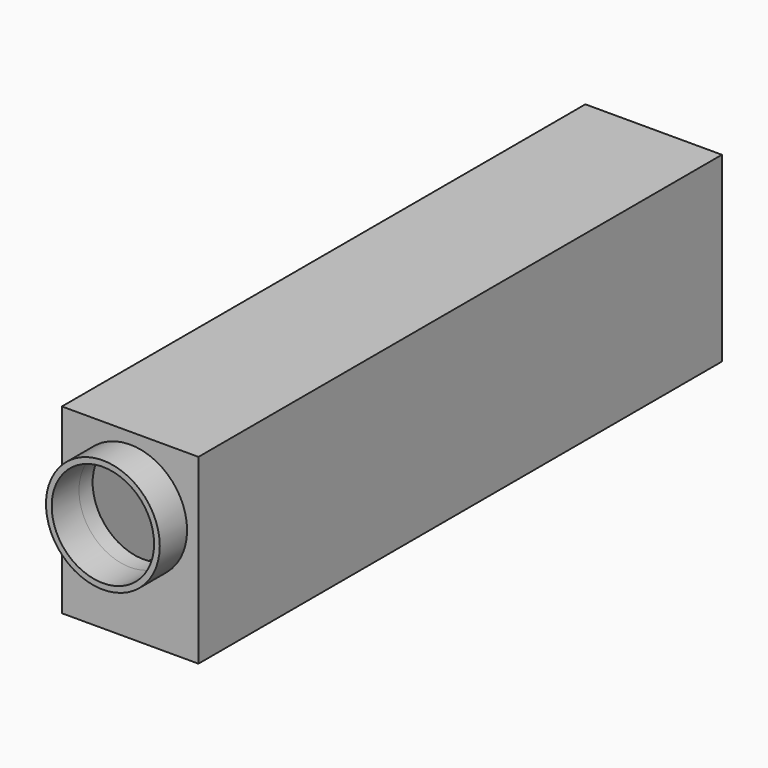
from build123d import *

# Parameters (mm, degrees)
F0_R     = 15.875
F0_R_2   = 14.2875
F1_DEPTH = 9.525
F2_W     = 38.1
F2_H     = 50.8
F2_R     = 14.2875
F3_DEPTH = 4.7625
F4_W     = 38.1
F4_H     = 50.8
F4_W_2   = 31.75
F4_H_2   = 44.45
F5_DEPTH = 177.8


with BuildPart() as f1:
    # F0 (on Front) → F1 (new body)
    with BuildSketch(Plane.XZ):
        Circle(F0_R)
        Circle(F0_R_2, mode=Mode.SUBTRACT)
    extrude(amount=F1_DEPTH)

    # F2 (on Front) → F3 (join)
    with BuildSketch(Plane.XZ):
        with Locations((0, -6.35)):
            Rectangle(F2_W, F2_H)
        Circle(F2_R, mode=Mode.SUBTRACT)
    extrude(amount=-F3_DEPTH)

    # F4 (on face) → F5 (join)
    with BuildSketch(Plane(origin=(0, 4.7625, 0), x_dir=(-1, 0, 0), z_dir=(0, 1, 0))):
        with Locations((0, -6.35)):
            Rectangle(F4_W, F4_H)
        with Locations((0, -6.35)):
            Rectangle(F4_W_2, F4_H_2, mode=Mode.SUBTRACT)
    extrude(amount=F5_DEPTH)


solid = f1.part
